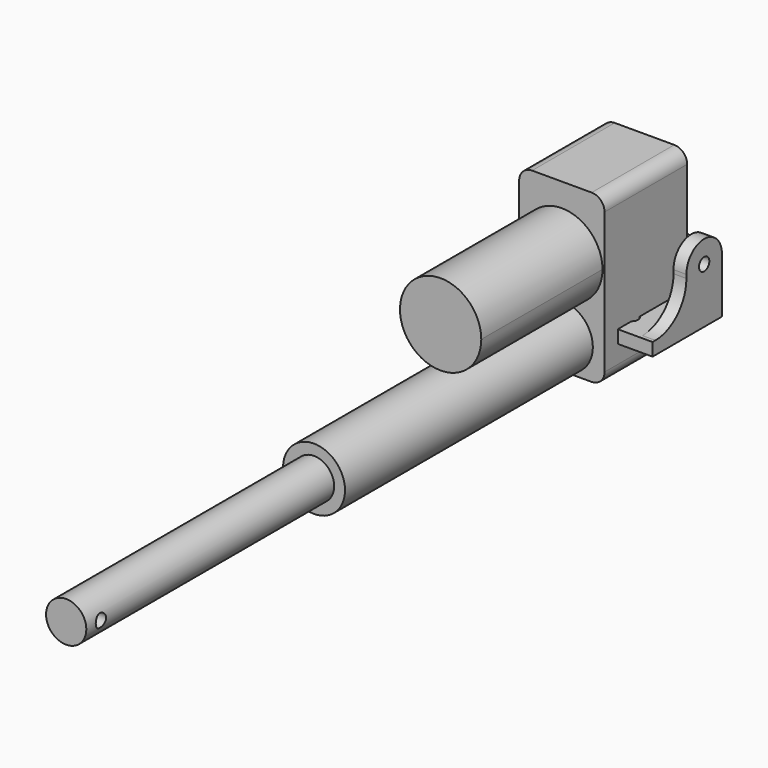
from build123d import *

# Parameters (mm, degrees)
F0_R           = 15.24
F0_R_2         = 9.906
F1_DEPTH       = 203.2
F3_DEPTH       = 50.8
F5_DEPTH       = 20
F6_R           = 9.906
F7_DEPTH       = 152.4
F9_DEPTH       = 74.549
F11_R          = 3.2
F12_DEPTH      = 21.001
F12_DEPTH_BACK = 21.001
F13_R          = 3.2
F14_DEPTH      = 30.001
F15_R          = 3.175
F16_DEPTH      = 38.1
F17_W          = 25.4
F17_H          = 31.75
F18_DEPTH      = 355.6010001
F19_R          = 3.175
F20_DEPTH      = 66.761


with BuildPart() as f1:
    # F0 (on Front) → F1 (new body)
    with BuildSketch(Plane.XZ):
        Circle(F0_R)
        Circle(F0_R_2, mode=Mode.SUBTRACT)
    extrude(amount=F1_DEPTH)

    # F2 (on face) → F3 (join)
    with BuildSketch(Plane(origin=(0, 0, 0), x_dir=(-1, 0, 0), z_dir=(0, 1, 0))):
        with BuildLine():
            Line((14.65, 66.76), (-14.65, 66.76))
            ThreePointArc((-14.65, 66.76), (-19.1401280605, 64.9001280605), (-21, 60.41))
            Line((-21, 60.41), (-21, -8.89))
            ThreePointArc((-21, -8.89), (-19.1401280605, -13.3801280605), (-14.65, -15.24))
            Line((-14.65, -15.24), (14.65, -15.24))
            ThreePointArc((14.65, -15.24), (19.1401280605, -13.3801280605), (21, -8.89))
            Line((21, -8.89), (21, 60.41))
            ThreePointArc((21, 60.41), (19.1401280605, 64.9001280605), (14.65, 66.76))
        make_face()
    extrude(amount=-F3_DEPTH)

    # F4 (on face) → F5 (join)
    with BuildSketch(Plane(origin=(0, 0, 0), x_dir=(-1, 0, 0), z_dir=(0, 1, 0))):
        with BuildLine():
            Line((2.65, 17.76), (-2.65, 17.76))
            ThreePointArc((-2.65, 17.76), (-7.1401280605, 15.9001280605), (-9, 11.41))
            Line((-9, 11.41), (-9, 6.11))
            ThreePointArc((-9, 6.11), (-7.1401280605, 1.6198719395), (-2.65, -0.24))
            Line((-2.65, -0.24), (2.65, -0.24))
            ThreePointArc((2.65, -0.24), (7.1401280605, 1.6198719395), (9, 6.11))
            Line((9, 6.11), (9, 11.41))
            ThreePointArc((9, 11.41), (7.1401280605, 15.9001280605), (2.65, 17.76))
        make_face()
    extrude(amount=F5_DEPTH)

    # F13 (on face) → F14 (cut, through all)
    with BuildSketch(Plane(origin=(-9, 0, 0), x_dir=(0, -1, 0), z_dir=(-1, 0, 0))):
        with Locations((-12, 8.76)):
            Circle(F13_R)
    extrude(amount=-F14_DEPTH, mode=Mode.SUBTRACT)


with BuildPart() as f7:
    # F6 (on face) → F7 (new body)
    with BuildSketch(Plane.XZ.offset(203.2)):
        Circle(F6_R)
    extrude(amount=F7_DEPTH)

    # F11 (on face) → F12 (cut, two sides)
    with BuildSketch(Plane.YZ) as f12_sk:
        with Locations((-346.6, 0)):
            Circle(F11_R)
    extrude(amount=-F12_DEPTH, mode=Mode.SUBTRACT)
    extrude(f12_sk.sketch, amount=F12_DEPTH_BACK, mode=Mode.SUBTRACT)


with BuildPart() as f9:
    # F8 (on face) → F9 (new body)
    with BuildSketch(Plane.XZ.offset(50.8)):
        with BuildLine():
            ThreePointArc((-3.43e-08, 15.24), (14.1421356116, 21.0978643641), (20, 35.24))
            ThreePointArc((20, 35.24), (-14.1421356116, 49.3821356359), (-3.43e-08, 15.24))
        make_face()
    extrude(amount=F9_DEPTH)


with BuildPart() as f16:
    # F15 (on Right) → F16 (new body)
    with BuildSketch(Plane.YZ):
        with BuildLine():
            Line((-42.672, 0), (0, 0))
            Line((0, 0), (0, 27.178))
            ThreePointArc((0, 27.178), (-10.922, 38.1), (-21.844, 27.178))
            Line((-21.844, 27.178), (-21.844, 25.4))
            ThreePointArc((-21.844, 25.4), (-27.4236158184, 11.9296158184), (-40.894, 6.35))
            Line((-40.894, 6.35), (-42.672, 6.35))
            Line((-42.672, 6.35), (-42.672, 0))
        make_face()
        with Locations((-10.922, 27.178)):
            Circle(F15_R, mode=Mode.SUBTRACT)
    extrude(amount=F16_DEPTH)

    # F17 (on face) → F18 (cut, through all)
    with BuildSketch(Plane(origin=(0, 0, 0), x_dir=(-1, 0, 0), z_dir=(0, 1, 0))):
        with Locations((-19.05, 22.225)):
            Rectangle(F17_W, F17_H)
    extrude(amount=-F18_DEPTH, mode=Mode.SUBTRACT)

    # F19 (on face) → F20 (cut, through all)
    with BuildSketch(Plane(origin=(0, 0, 0), x_dir=(1, 0, 0), z_dir=(0, 0, -1))):
        with Locations((19.05, 9.652)):
            Circle(F19_R)
        with Locations((19.05, 31.75)):
            Circle(F19_R)
    extrude(amount=-F20_DEPTH, mode=Mode.SUBTRACT)


solid = Compound([f1.part, f7.part, f9.part, f16.part])
